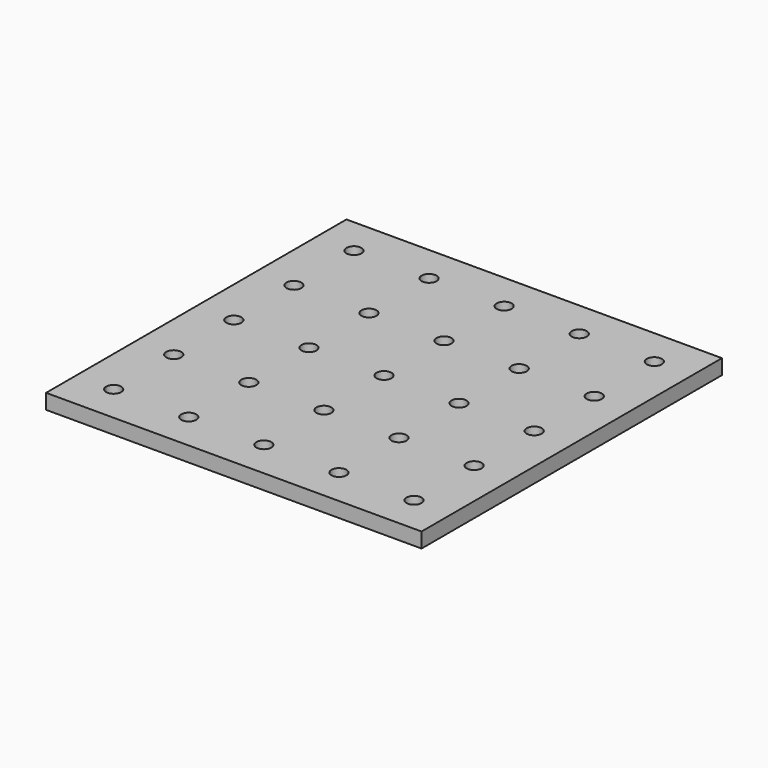
from build123d import *

# Parameters (mm, degrees)
F0_W     = 50
F0_H     = 50
F1_DEPTH = 2
F2_R     = 1
F3_DEPTH = 25


with BuildPart() as f1:
    # F0 (on Top) → F1 (new body)
    with BuildSketch(Plane.XY):
        with Locations((25, 25)):
            Rectangle(F0_W, F0_H)
    extrude(amount=F1_DEPTH)

    # F2 (on face) → F3 (cut)
    with BuildSketch(Plane.XY.offset(2)):
        with BuildLine():
            ThreePointArc((5, 4), (5.707107, 4.292893), (6, 5))
            ThreePointArc((6, 5), (5, 6), (4, 5))
            Line((4, 5), (5, 5))
            Line((5, 5), (5, 4))
        make_face()
        with BuildLine():
            Line((5, 5), (4, 5))
            ThreePointArc((4, 5), (4.292893, 4.292893), (5, 4))
            Line((5, 4), (5, 5))
        make_face()
        with BuildLine():
            ThreePointArc((45, 4), (45.707107, 4.292893), (46, 5))
            Line((46, 5), (45, 5))
            Line((45, 5), (45, 4))
        make_face()
        with BuildLine():
            Line((45, 5), (46, 5))
            ThreePointArc((46, 5), (44.292893, 5.707107), (45, 4))
            Line((45, 4), (45, 5))
        make_face()
        with Locations((5, 15)):
            Circle(F2_R)
        with Locations((5, 25)):
            Circle(F2_R)
        with Locations((5, 35)):
            Circle(F2_R)
        with Locations((5, 45)):
            Circle(F2_R)
        with Locations((15, 5)):
            Circle(F2_R)
        with Locations((15, 15)):
            Circle(F2_R)
        with Locations((15, 25)):
            Circle(F2_R)
        with Locations((15, 35)):
            Circle(F2_R)
        with Locations((15, 45)):
            Circle(F2_R)
        with Locations((25, 5)):
            Circle(F2_R)
        with Locations((25, 15)):
            Circle(F2_R)
        with Locations((25, 25)):
            Circle(F2_R)
        with Locations((25, 35)):
            Circle(F2_R)
        with Locations((25, 45)):
            Circle(F2_R)
        with Locations((35, 5)):
            Circle(F2_R)
        with Locations((35, 15)):
            Circle(F2_R)
        with Locations((35, 25)):
            Circle(F2_R)
        with Locations((35, 35)):
            Circle(F2_R)
        with Locations((35, 45)):
            Circle(F2_R)
        with Locations((45, 15)):
            Circle(F2_R)
        with Locations((45, 25)):
            Circle(F2_R)
        with Locations((45, 35)):
            Circle(F2_R)
        with Locations((45, 45)):
            Circle(F2_R)
    extrude(amount=-F3_DEPTH, mode=Mode.SUBTRACT)


solid = f1.part
